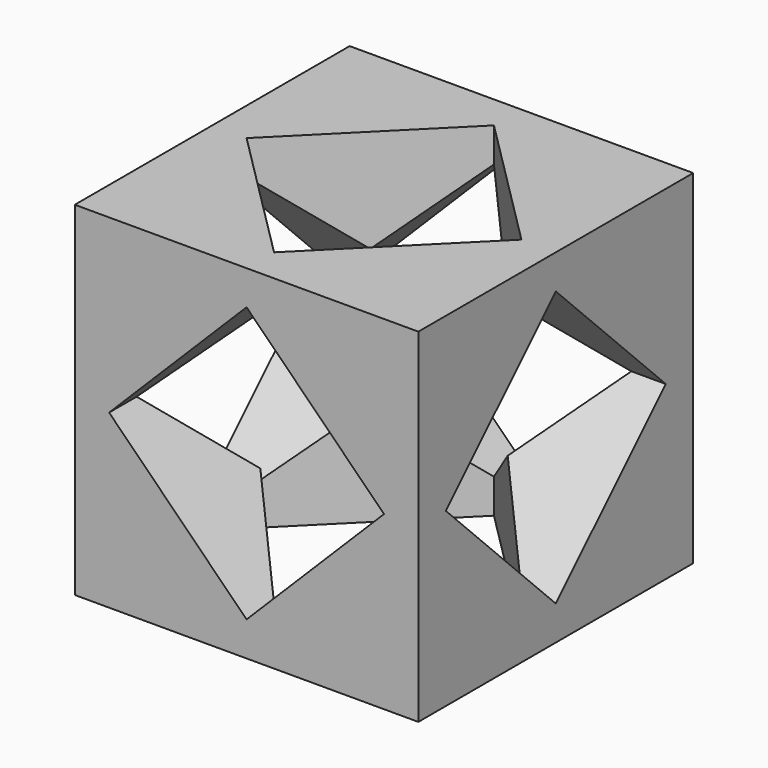
from build123d import *

# Parameters (mm, degrees)
F0_W     = 10
F0_H     = 10
F3_DEPTH = 5
F1_W     = 10
F1_H     = 10
F4_DEPTH = 5
F2_W     = 10
F2_H     = 10
F5_DEPTH = 5


with BuildPart() as f3:
    # F0 (on Front) → F3 (new body, symmetric)
    with BuildSketch(Plane.XZ):
        Rectangle(F0_W, F0_H)
        Polygon((-4, 0), (0, 4), (4, 0), (0, -4), align=None, mode=Mode.SUBTRACT)
    extrude(amount=F3_DEPTH, both=True)

    # F1 (on Right) → F4 (intersect, symmetric)
    with BuildSketch(Plane.YZ):
        Rectangle(F1_W, F1_H)
        Polygon((-4, 0), (0, 4), (4, 0), (0, -4), align=None, mode=Mode.SUBTRACT)
    extrude(amount=F4_DEPTH, both=True, mode=Mode.INTERSECT)

    # F2 (on Top) → F5 (intersect, symmetric)
    with BuildSketch(Plane.XY):
        Rectangle(F2_W, F2_H)
        Polygon((-4, 0), (0, 4), (4, 0), (0, -4), align=None, mode=Mode.SUBTRACT)
    extrude(amount=F5_DEPTH, both=True, mode=Mode.INTERSECT)


solid = f3.part
